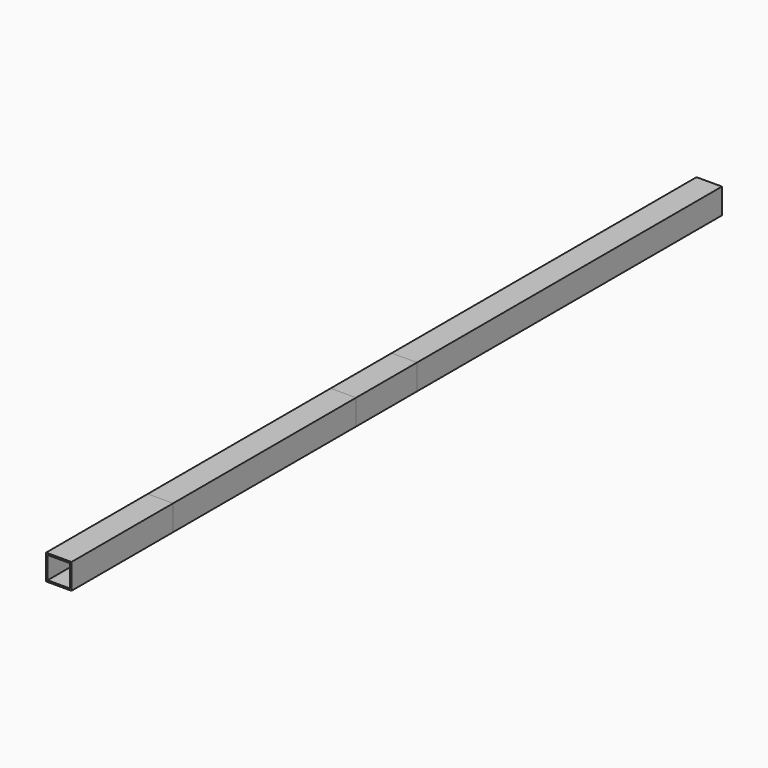
from build123d import *

# Parameters (mm, degrees)
F0_W     = 25.4
F0_H     = 25.4
F0_W_2   = 22.225
F0_H_2   = 22.225
F1_DEPTH = 304.8
F2_DEPTH = 812.8
F3_DEPTH = 685.8
F4_DEPTH = 457.2
F5_DEPTH = 381


with BuildPart() as f1:
    # F0 (on Front) → F1 (new body)
    with BuildSketch(Plane.XZ):
        with Locations((12.7, 12.7)):
            Rectangle(F0_W, F0_H)
        with Locations((12.7, 12.7)):
            Rectangle(F0_W_2, F0_H_2, mode=Mode.SUBTRACT)
    extrude(amount=F1_DEPTH)


with BuildPart() as f2:
    # F0 (on Front) → F2 (new body)
    with BuildSketch(Plane.XZ):
        with Locations((12.7, 12.7)):
            Rectangle(F0_W, F0_H)
        with Locations((12.7, 12.7)):
            Rectangle(F0_W_2, F0_H_2, mode=Mode.SUBTRACT)
    extrude(amount=F2_DEPTH)


with BuildPart() as f3:
    # F0 (on Front) → F3 (new body)
    with BuildSketch(Plane.XZ):
        with Locations((12.7, 12.7)):
            Rectangle(F0_W, F0_H)
        with Locations((12.7, 12.7)):
            Rectangle(F0_W_2, F0_H_2, mode=Mode.SUBTRACT)
    extrude(amount=F3_DEPTH)


with BuildPart() as f4:
    # F0 (on Front) → F4 (new body)
    with BuildSketch(Plane.XZ):
        with Locations((12.7, 12.7)):
            Rectangle(F0_W, F0_H)
        with Locations((12.7, 12.7)):
            Rectangle(F0_W_2, F0_H_2, mode=Mode.SUBTRACT)
    extrude(amount=F4_DEPTH)


with BuildPart() as f5:
    # F0 (on Front) → F5 (new body)
    with BuildSketch(Plane.XZ):
        with Locations((12.7, 12.7)):
            Rectangle(F0_W, F0_H)
        with Locations((12.7, 12.7)):
            Rectangle(F0_W_2, F0_H_2, mode=Mode.SUBTRACT)
    extrude(amount=F5_DEPTH)


solid = Compound([f1.part, f2.part, f3.part, f4.part, f5.part])
